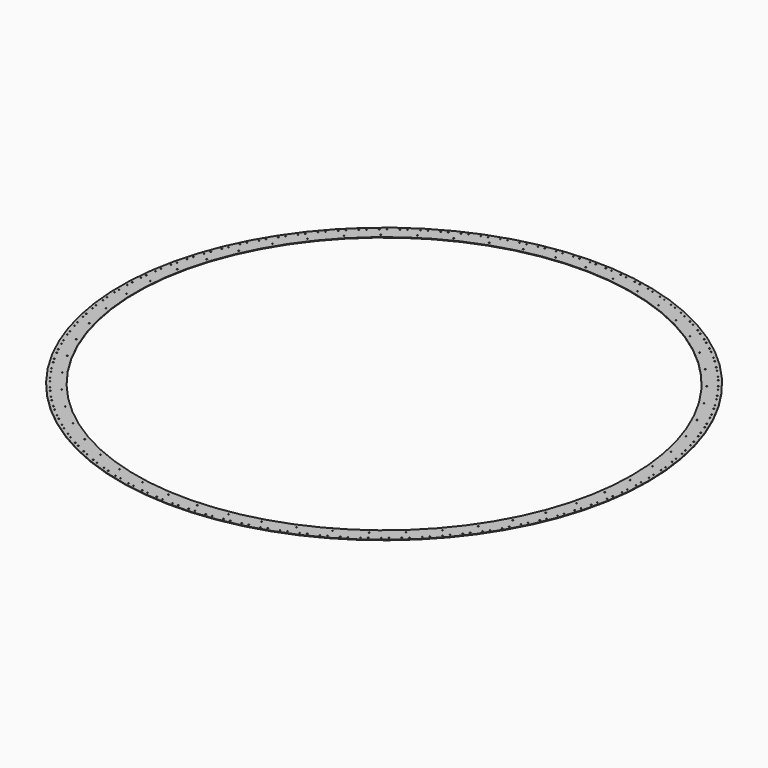
from build123d import *

# Parameters (mm, degrees)
F0_R     = 1676.4
F0_R_2   = 1574.8
F1_DEPTH = 3.175
F2_R     = 3.175
F3_DEPTH = 25.4
F4_R     = 3.175
F5_DEPTH = 25.4


with BuildPart() as f1:
    # F0 (on Top) → F1 (new body)
    with BuildSketch(Plane.XY):
        Circle(F0_R)
        Circle(F0_R_2, mode=Mode.SUBTRACT)
    extrude(amount=F1_DEPTH)

    # F2 (on face) → F3 (cut)
    with BuildSketch(Plane.XY.offset(3.175)):
        with Locations((-19.049685, 1657.240517)):
            Circle(F2_R)
        with Locations((19.05, 1657.240514)):
            Circle(F2_R)
        with Locations((-121.034782, 1652.924561)):
            Circle(F2_R)
        with Locations((-83.007359, 1655.270008)):
            Circle(F2_R)
        with Locations((-222.560753, 1642.338495)):
            Circle(F2_R)
        with Locations((-184.749843, 1647.020497)):
            Circle(F2_R)
        with Locations((-323.242474, 1625.522478)):
            Circle(F2_R)
        with Locations((-285.791508, 1632.523273)):
            Circle(F2_R)
        with Locations((-422.698026, 1602.540296)):
            Circle(F2_R)
        with Locations((-385.749067, 1611.833329)):
            Circle(F2_R)
        with Locations((-520.55014, 1573.479131)):
            Circle(F2_R)
        with Locations((-484.243348, 1585.029149)):
            Circle(F2_R)
        with Locations((-616.427628, 1538.44922)):
            Circle(F2_R)
        with Locations((-580.900728, 1552.21241)):
            Circle(F2_R)
        with Locations((-709.966796, 1497.583444)):
            Circle(F2_R)
        with Locations((-675.354553, 1513.507598)):
            Circle(F2_R)
        with Locations((-800.812816, 1451.036821)):
            Circle(F2_R)
        with Locations((-767.246527, 1469.061534)):
            Circle(F2_R)
        with Locations((-888.621079, 1398.985919)):
            Circle(F2_R)
        with Locations((-856.228072, 1419.042815)):
            Circle(F2_R)
        with Locations((-973.058498, 1341.628183)):
            Circle(F2_R)
        with Locations((-941.96165, 1363.641182)):
            Circle(F2_R)
        with Locations((-1053.804772, 1279.181193)):
            Circle(F2_R)
        with Locations((-1024.122045, 1303.06679)):
            Circle(F2_R)
        with Locations((-1130.553604, 1211.88183)):
            Circle(F2_R)
        with Locations((-1102.397595, 1237.54942)):
            Circle(F2_R)
        with Locations((-1203.013859, 1139.985384)):
            Circle(F2_R)
        with Locations((-1176.491372, 1167.3376)):
            Circle(F2_R)
        with Locations((-1270.910671, 1063.764584)):
            Circle(F2_R)
        with Locations((-1246.122316, 1092.69767)):
            Circle(F2_R)
        with Locations((-1333.986483, 983.508559)):
            Circle(F2_R)
        with Locations((-1311.02629, 1013.912763)):
            Circle(F2_R)
        with Locations((-1392.002027, 899.52175)):
            Circle(F2_R)
        with Locations((-1370.957092, 931.281737)):
            Circle(F2_R)
        with Locations((-1444.737231, 812.122747)):
            Circle(F2_R)
        with Locations((-1425.687385, 845.118041)):
            Circle(F2_R)
        with Locations((-1491.992051, 721.643084)):
            Circle(F2_R)
        with Locations((-1475.009557, 755.748522)):
            Circle(F2_R)
        with Locations((-1533.587235, 628.425982)):
            Circle(F2_R)
        with Locations((-1518.736513, 663.512191)):
            Circle(F2_R)
        with Locations((-1569.364997, 532.825045)):
            Circle(F2_R)
        with Locations((-1556.70238, 568.758931)):
            Circle(F2_R)
        with Locations((-1599.18962, 435.202919)):
            Circle(F2_R)
        with Locations((-1588.763143, 471.848173)):
            Circle(F2_R)
        with Locations((-1622.947969, 335.92992)):
            Circle(F2_R)
        with Locations((-1614.797183, 373.147533)):
            Circle(F2_R)
        with Locations((-1640.549921, 235.382624)):
            Circle(F2_R)
        with Locations((-1634.705743, 273.031417)):
            Circle(F2_R)
        with Locations((-1651.928705, 133.942441)):
            Circle(F2_R)
        with Locations((-1648.413306, 171.879599)):
            Circle(F2_R)
        with Locations((-1657.041157, 31.994168)):
            Circle(F2_R)
        with Locations((-1655.867871, 70.075784)):
            Circle(F2_R)
        with Locations((-1655.867885, -70.075469)):
            Circle(F2_R)
        with Locations((-1657.041163, -31.993854)):
            Circle(F2_R)
        with Locations((-1648.413338, -171.879287)):
            Circle(F2_R)
        with Locations((-1651.92873, -133.942127)):
            Circle(F2_R)
        with Locations((-1634.705795, -273.031107)):
            Circle(F2_R)
        with Locations((-1640.549966, -235.382313)):
            Circle(F2_R)
        with Locations((-1614.797253, -373.147227)):
            Circle(F2_R)
        with Locations((-1622.948033, -335.929612)):
            Circle(F2_R)
        with Locations((-1588.763233, -471.847871)):
            Circle(F2_R)
        with Locations((-1599.189703, -435.202616)):
            Circle(F2_R)
        with Locations((-1556.702488, -568.758635)):
            Circle(F2_R)
        with Locations((-1569.365098, -532.824747)):
            Circle(F2_R)
        with Locations((-1518.736639, -663.511903)):
            Circle(F2_R)
        with Locations((-1533.587354, -628.425691)):
            Circle(F2_R)
        with Locations((-1475.009701, -755.748242)):
            Circle(F2_R)
        with Locations((-1491.992188, -721.642801)):
            Circle(F2_R)
        with Locations((-1425.687545, -845.11777)):
            Circle(F2_R)
        with Locations((-1444.737385, -812.122473)):
            Circle(F2_R)
        with Locations((-1370.957269, -931.281477)):
            Circle(F2_R)
        with Locations((-1392.002198, -899.521486)):
            Circle(F2_R)
        with Locations((-1311.026482, -1013.912514)):
            Circle(F2_R)
        with Locations((-1333.986669, -983.508306)):
            Circle(F2_R)
        with Locations((-1246.122523, -1092.697433)):
            Circle(F2_R)
        with Locations((-1270.910873, -1063.764342)):
            Circle(F2_R)
        with Locations((-1176.491594, -1167.337377)):
            Circle(F2_R)
        with Locations((-1203.014076, -1139.985156)):
            Circle(F2_R)
        with Locations((-1102.39783, -1237.54921)):
            Circle(F2_R)
        with Locations((-1130.553834, -1211.881616)):
            Circle(F2_R)
        with Locations((-1024.122293, -1303.066596)):
            Circle(F2_R)
        with Locations((-1053.805015, -1279.180993)):
            Circle(F2_R)
        with Locations((-941.961909, -1363.641003)):
            Circle(F2_R)
        with Locations((-973.058752, -1341.627999)):
            Circle(F2_R)
        with Locations((-856.228341, -1419.042653)):
            Circle(F2_R)
        with Locations((-888.621344, -1398.98575)):
            Circle(F2_R)
        with Locations((-767.246806, -1469.061388)):
            Circle(F2_R)
        with Locations((-800.813091, -1451.036669)):
            Circle(F2_R)
        with Locations((-675.354841, -1513.50747)):
            Circle(F2_R)
        with Locations((-709.96708, -1497.583309)):
            Circle(F2_R)
        with Locations((-580.901023, -1552.2123)):
            Circle(F2_R)
        with Locations((-616.42792, -1538.449103)):
            Circle(F2_R)
        with Locations((-484.243649, -1585.029057)):
            Circle(F2_R)
        with Locations((-520.550438, -1573.479032)):
            Circle(F2_R)
        with Locations((-385.749373, -1611.833256)):
            Circle(F2_R)
        with Locations((-422.69833, -1602.540216)):
            Circle(F2_R)
        with Locations((-285.791818, -1632.523219)):
            Circle(F2_R)
        with Locations((-323.242783, -1625.522416)):
            Circle(F2_R)
        with Locations((-184.750156, -1647.020462)):
            Circle(F2_R)
        with Locations((-222.561065, -1642.338453)):
            Circle(F2_R)
        with Locations((-83.007674, -1655.269993)):
            Circle(F2_R)
        with Locations((-121.035096, -1652.924538)):
            Circle(F2_R)
        with Locations((19.049685, -1657.240517)):
            Circle(F2_R)
        with Locations((-19.05, -1657.240514)):
            Circle(F2_R)
        with Locations((121.034782, -1652.924561)):
            Circle(F2_R)
        with Locations((83.007359, -1655.270008)):
            Circle(F2_R)
        with Locations((222.560753, -1642.338495)):
            Circle(F2_R)
        with Locations((184.749843, -1647.020497)):
            Circle(F2_R)
        with Locations((323.242474, -1625.522478)):
            Circle(F2_R)
        with Locations((285.791508, -1632.523273)):
            Circle(F2_R)
        with Locations((422.698026, -1602.540296)):
            Circle(F2_R)
        with Locations((385.749067, -1611.833329)):
            Circle(F2_R)
        with Locations((520.55014, -1573.479131)):
            Circle(F2_R)
        with Locations((484.243348, -1585.029149)):
            Circle(F2_R)
        with Locations((616.427628, -1538.44922)):
            Circle(F2_R)
        with Locations((580.900728, -1552.21241)):
            Circle(F2_R)
        with Locations((709.966796, -1497.583444)):
            Circle(F2_R)
        with Locations((675.354553, -1513.507598)):
            Circle(F2_R)
        with Locations((800.812816, -1451.036821)):
            Circle(F2_R)
        with Locations((767.246527, -1469.061534)):
            Circle(F2_R)
        with Locations((888.621079, -1398.985919)):
            Circle(F2_R)
        with Locations((856.228072, -1419.042815)):
            Circle(F2_R)
        with Locations((973.058498, -1341.628183)):
            Circle(F2_R)
        with Locations((941.96165, -1363.641182)):
            Circle(F2_R)
        with Locations((1053.804772, -1279.181193)):
            Circle(F2_R)
        with Locations((1024.122045, -1303.06679)):
            Circle(F2_R)
        with Locations((1130.553604, -1211.88183)):
            Circle(F2_R)
        with Locations((1102.397595, -1237.54942)):
            Circle(F2_R)
        with Locations((1203.013859, -1139.985384)):
            Circle(F2_R)
        with Locations((1176.491372, -1167.3376)):
            Circle(F2_R)
        with Locations((1270.910671, -1063.764584)):
            Circle(F2_R)
        with Locations((1246.122316, -1092.69767)):
            Circle(F2_R)
        with Locations((1333.986483, -983.508559)):
            Circle(F2_R)
        with Locations((1311.02629, -1013.912763)):
            Circle(F2_R)
        with Locations((1392.002027, -899.52175)):
            Circle(F2_R)
        with Locations((1370.957092, -931.281737)):
            Circle(F2_R)
        with Locations((1444.737231, -812.122747)):
            Circle(F2_R)
        with Locations((1425.687385, -845.118041)):
            Circle(F2_R)
        with Locations((1491.992051, -721.643084)):
            Circle(F2_R)
        with Locations((1475.009557, -755.748522)):
            Circle(F2_R)
        with Locations((1533.587235, -628.425982)):
            Circle(F2_R)
        with Locations((1518.736513, -663.512191)):
            Circle(F2_R)
        with Locations((1569.364997, -532.825045)):
            Circle(F2_R)
        with Locations((1556.70238, -568.758931)):
            Circle(F2_R)
        with Locations((1599.18962, -435.202919)):
            Circle(F2_R)
        with Locations((1588.763143, -471.848173)):
            Circle(F2_R)
        with Locations((1622.947969, -335.92992)):
            Circle(F2_R)
        with Locations((1614.797183, -373.147533)):
            Circle(F2_R)
        with Locations((1640.549921, -235.382624)):
            Circle(F2_R)
        with Locations((1634.705743, -273.031417)):
            Circle(F2_R)
        with Locations((1651.928705, -133.942441)):
            Circle(F2_R)
        with Locations((1648.413306, -171.879599)):
            Circle(F2_R)
        with Locations((1657.041157, -31.994168)):
            Circle(F2_R)
        with Locations((1655.867871, -70.075784)):
            Circle(F2_R)
        with Locations((1655.867885, 70.075469)):
            Circle(F2_R)
        with Locations((1657.041163, 31.993854)):
            Circle(F2_R)
        with Locations((1648.413338, 171.879287)):
            Circle(F2_R)
        with Locations((1651.92873, 133.942127)):
            Circle(F2_R)
        with Locations((1634.705795, 273.031107)):
            Circle(F2_R)
        with Locations((1640.549966, 235.382313)):
            Circle(F2_R)
        with Locations((1614.797253, 373.147227)):
            Circle(F2_R)
        with Locations((1622.948033, 335.929612)):
            Circle(F2_R)
        with Locations((1588.763233, 471.847871)):
            Circle(F2_R)
        with Locations((1599.189703, 435.202616)):
            Circle(F2_R)
        with Locations((1556.702488, 568.758635)):
            Circle(F2_R)
        with Locations((1569.365098, 532.824747)):
            Circle(F2_R)
        with Locations((1518.736639, 663.511903)):
            Circle(F2_R)
        with Locations((1533.587354, 628.425691)):
            Circle(F2_R)
        with Locations((1475.009701, 755.748242)):
            Circle(F2_R)
        with Locations((1491.992188, 721.642801)):
            Circle(F2_R)
        with Locations((1425.687545, 845.11777)):
            Circle(F2_R)
        with Locations((1444.737385, 812.122473)):
            Circle(F2_R)
        with Locations((1370.957269, 931.281477)):
            Circle(F2_R)
        with Locations((1392.002198, 899.521486)):
            Circle(F2_R)
        with Locations((1311.026482, 1013.912514)):
            Circle(F2_R)
        with Locations((1333.986669, 983.508306)):
            Circle(F2_R)
        with Locations((1246.122523, 1092.697433)):
            Circle(F2_R)
        with Locations((1270.910873, 1063.764342)):
            Circle(F2_R)
        with Locations((1176.491594, 1167.337377)):
            Circle(F2_R)
        with Locations((1203.014076, 1139.985156)):
            Circle(F2_R)
        with Locations((1102.39783, 1237.54921)):
            Circle(F2_R)
        with Locations((1130.553834, 1211.881616)):
            Circle(F2_R)
        with Locations((1024.122293, 1303.066596)):
            Circle(F2_R)
        with Locations((1053.805015, 1279.180993)):
            Circle(F2_R)
        with Locations((941.961909, 1363.641003)):
            Circle(F2_R)
        with Locations((973.058752, 1341.627999)):
            Circle(F2_R)
        with Locations((856.228341, 1419.042653)):
            Circle(F2_R)
        with Locations((888.621344, 1398.98575)):
            Circle(F2_R)
        with Locations((767.246806, 1469.061388)):
            Circle(F2_R)
        with Locations((800.813091, 1451.036669)):
            Circle(F2_R)
        with Locations((675.354841, 1513.50747)):
            Circle(F2_R)
        with Locations((709.96708, 1497.583309)):
            Circle(F2_R)
        with Locations((580.901023, 1552.2123)):
            Circle(F2_R)
        with Locations((616.42792, 1538.449103)):
            Circle(F2_R)
        with Locations((484.243649, 1585.029057)):
            Circle(F2_R)
        with Locations((520.550438, 1573.479032)):
            Circle(F2_R)
        with Locations((385.749373, 1611.833256)):
            Circle(F2_R)
        with Locations((422.69833, 1602.540216)):
            Circle(F2_R)
        with Locations((285.791818, 1632.523219)):
            Circle(F2_R)
        with Locations((323.242783, 1625.522416)):
            Circle(F2_R)
        with Locations((184.750156, 1647.020462)):
            Circle(F2_R)
        with Locations((222.561065, 1642.338453)):
            Circle(F2_R)
        with Locations((83.007674, 1655.269993)):
            Circle(F2_R)
        with Locations((121.035096, 1652.924538)):
            Circle(F2_R)
    extrude(amount=-F3_DEPTH, mode=Mode.SUBTRACT)

    # F4 (on face) → F5 (cut)
    with BuildSketch(Plane.XY.offset(3.175)):
        with Locations((0, 1600.2)):
            Circle(F4_R)
        with Locations((-182.409054, 1589.769473)):
            Circle(F4_R)
        with Locations((-362.440127, 1558.613869)):
            Circle(F4_R)
        with Locations((-537.746239, 1507.139351)):
            Circle(F4_R)
        with Locations((-706.042006, 1436.016966)):
            Circle(F4_R)
        with Locations((-865.133436, 1346.173903)):
            Circle(F4_R)
        with Locations((-1012.946529, 1238.781405)):
            Circle(F4_R)
        with Locations((-1147.554314, 1115.239497)):
            Circle(F4_R)
        with Locations((-1267.201974, 977.158737)):
            Circle(F4_R)
        with Locations((-1370.329718, 826.339218)):
            Circle(F4_R)
        with Locations((-1455.593119, 664.747104)):
            Circle(F4_R)
        with Locations((-1521.880637, 494.488994)):
            Circle(F4_R)
        with Locations((-1568.328114, 317.784465)):
            Circle(F4_R)
        with Locations((-1594.330036, 136.937129)):
            Circle(F4_R)
        with Locations((-1599.547427, -45.695392)):
            Circle(F4_R)
        with Locations((-1583.912271, -227.732204)):
            Circle(F4_R)
        with Locations((-1547.628397, -406.800178)):
            Circle(F4_R)
        with Locations((-1491.16882, -580.56489)):
            Circle(F4_R)
        with Locations((-1415.269576, -746.761051)):
            Circle(F4_R)
        with Locations((-1320.92013, -903.222039)):
            Circle(F4_R)
        with Locations((-1209.350469, -1047.908146)):
            Circle(F4_R)
        with Locations((-1082.015075, -1178.933169)):
            Circle(F4_R)
        with Locations((-940.573961, -1294.588994)):
            Circle(F4_R)
        with Locations((-786.871026, -1393.367873)):
            Circle(F4_R)
        with Locations((-622.910024, -1473.98207)):
            Circle(F4_R)
        with Locations((-450.828437, -1535.380656)):
            Circle(F4_R)
        with Locations((-272.869613, -1576.763208)):
            Circle(F4_R)
        with Locations((-91.353515, -1597.59024)):
            Circle(F4_R)
        with Locations((91.353515, -1597.59024)):
            Circle(F4_R)
        with Locations((272.869613, -1576.763208)):
            Circle(F4_R)
        with Locations((450.828437, -1535.380656)):
            Circle(F4_R)
        with Locations((622.910024, -1473.98207)):
            Circle(F4_R)
        with Locations((786.871026, -1393.367873)):
            Circle(F4_R)
        with Locations((940.573961, -1294.588994)):
            Circle(F4_R)
        with Locations((1082.015075, -1178.933169)):
            Circle(F4_R)
        with Locations((1209.350469, -1047.908146)):
            Circle(F4_R)
        with Locations((1320.92013, -903.222039)):
            Circle(F4_R)
        with Locations((1415.269576, -746.761051)):
            Circle(F4_R)
        with Locations((1491.16882, -580.56489)):
            Circle(F4_R)
        with Locations((1547.628397, -406.800178)):
            Circle(F4_R)
        with Locations((1583.912271, -227.732204)):
            Circle(F4_R)
        with Locations((1599.547427, -45.695392)):
            Circle(F4_R)
        with Locations((1594.330036, 136.937129)):
            Circle(F4_R)
        with Locations((1568.328114, 317.784465)):
            Circle(F4_R)
        with Locations((1521.880637, 494.488994)):
            Circle(F4_R)
        with Locations((1455.593119, 664.747104)):
            Circle(F4_R)
        with Locations((1370.329718, 826.339218)):
            Circle(F4_R)
        with Locations((1267.201974, 977.158737)):
            Circle(F4_R)
        with Locations((1147.554314, 1115.239497)):
            Circle(F4_R)
        with Locations((1012.946529, 1238.781405)):
            Circle(F4_R)
        with Locations((865.133436, 1346.173903)):
            Circle(F4_R)
        with Locations((706.042006, 1436.016966)):
            Circle(F4_R)
        with Locations((537.746239, 1507.139351)):
            Circle(F4_R)
        with Locations((362.440127, 1558.613869)):
            Circle(F4_R)
        with Locations((182.409054, 1589.769473)):
            Circle(F4_R)
    extrude(amount=-F5_DEPTH, mode=Mode.SUBTRACT)


solid = f1.part
